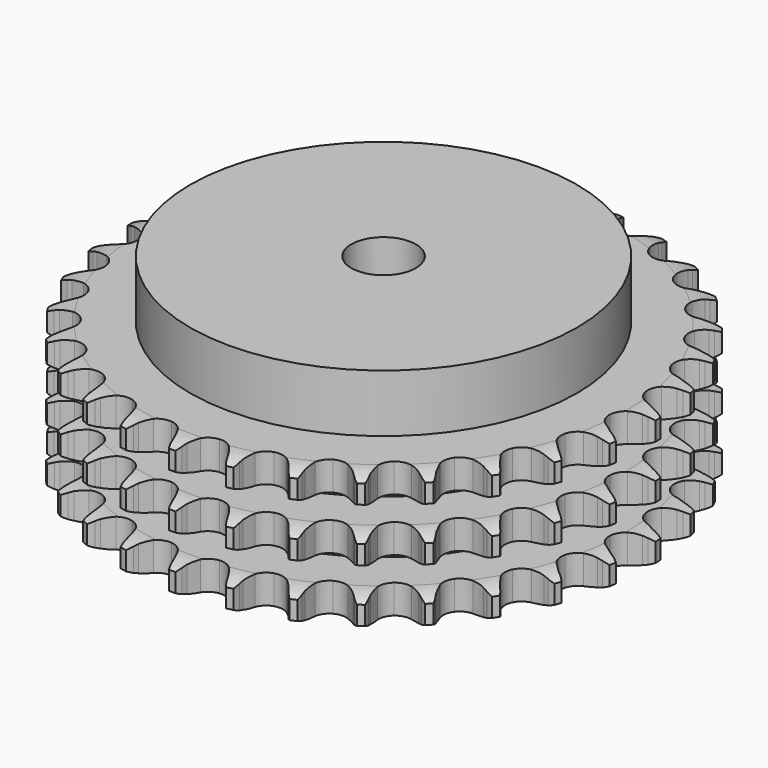
from build123d import *

# Parameters (mm, degrees)
PAD_DEPTH         = 42.1
SKETCH001_R       = 60
PAD001_DEPTH      = 60
SKETCH002_R       = 10
POCKET_DEPTH      = 0.001
POCKET_DEPTH_BACK = 60.001


with BuildPart() as part:
    # Sprocket → Pad (new body)
    with BuildSketch(Plane.XY):
        with BuildLine():
            ThreePointArc((-8.441553, 83.012563), (-7.253766, 81.595871), (-6.410038, 79.950886))
            Line((-6.410038, 79.950886), (-5.914495, 78.642367))
            ThreePointArc((-5.914495, 78.642367), (-5.128769, 76.941144), (-4.111265, 75.367546))
            ThreePointArc((-4.111265, 75.367546), (-2.29761, 73.856552), (0, 73.314854))
            ThreePointArc((0, 73.314854), (2.29761, 73.856552), (4.111265, 75.367546))
            ThreePointArc((4.111265, 75.367546), (5.128769, 76.941144), (5.914495, 78.642367))
            Line((5.914495, 78.642367), (6.410038, 79.950886))
            ThreePointArc((6.410038, 79.950886), (7.253766, 81.595871), (8.441553, 83.012563))
            ThreePointArc((8.441553, 83.012563), (9.319847, 81.385771), (9.815171, 79.604618))
            Line((9.815171, 79.604618), (10.037167, 78.223133))
            ThreePointArc((10.037167, 78.223133), (10.464356, 76.398568), (11.144269, 74.652359))
            ThreePointArc((11.144269, 74.652359), (12.616637, 72.807209), (14.758172, 71.814094))
            ThreePointArc((14.758172, 71.814094), (17.117792, 71.882198), (19.198482, 72.997176))
            Line((19.198482, 72.997176), (21.624017, 75.841974))
            ThreePointArc((21.624017, 75.841974), (21.982831, 76.44284), (22.372819, 77.023955))
            ThreePointArc((22.372819, 77.023955), (23.530409, 78.465426), (24.97906, 79.614019))
            ThreePointArc((24.97906, 79.614019), (25.511905, 77.843728), (25.638545, 75.999327))
            Line((25.638545, 75.999327), (25.577906, 74.601434))
            ThreePointArc((25.577906, 74.601434), (25.629069, 72.728225), (25.943554, 70.880896))
            ThreePointArc((25.943554, 70.880896), (27.014357, 68.777131), (28.912142, 67.373258))
            ThreePointArc((28.912142, 67.373258), (31.23717, 66.964979), (33.499712, 67.638294))
            Line((33.499712, 67.638294), (36.44825, 69.936602))
            ThreePointArc((36.44825, 69.936602), (36.920671, 70.452939), (37.419655, 70.943655))
            ThreePointArc((37.419655, 70.943655), (38.843714, 72.122598), (40.493921, 72.956068))
            ThreePointArc((40.493921, 72.956068), (40.659502, 71.114754), (40.412275, 69.282615))
            Line((40.412275, 69.282615), (40.071483, 67.925543))
            ThreePointArc((40.071483, 67.925543), (39.744524, 66.080381), (39.680708, 64.207561))
            ThreePointArc((39.680708, 64.207561), (40.306106, 61.931309), (41.882446, 60.174152))
            ThreePointArc((41.882446, 60.174152), (44.077695, 59.306206), (46.429459, 59.510291))
            Line((46.429459, 59.510291), (49.780286, 61.168017))
            ThreePointArc((49.780286, 61.168017), (50.346975, 61.578687), (50.934525, 61.958913))
            ThreePointArc((50.934525, 61.958913), (52.566754, 62.827062), (54.350956, 63.311286))
            ThreePointArc((54.350956, 63.311286), (54.142494, 61.474333), (53.531521, 59.729465))
            Line((53.531521, 59.729465), (52.924529, 58.468773))
            ThreePointArc((52.924529, 58.468773), (52.232834, 56.727198), (51.793328, 54.905561))
            ThreePointArc((51.793328, 54.905561), (51.947719, 52.550012), (53.138077, 50.511509))
            ThreePointArc((53.138077, 50.511509), (55.113673, 49.21943), (57.458379, 48.945931))
            Line((57.458379, 48.945931), (61.074312, 49.895206))
            ThreePointArc((61.074312, 49.895206), (61.712068, 50.183396), (62.36413, 50.437566))
            ThreePointArc((62.36413, 50.437566), (64.137704, 50.959379), (65.982857, 51.074533))
            ThreePointArc((65.982857, 51.074533), (65.408886, 49.317146), (64.459181, 47.730983))
            Line((64.459181, 47.730983), (63.610838, 46.618284))
            ThreePointArc((63.610838, 46.618284), (62.582726, 45.051596), (61.785524, 43.35572))
            ThreePointArc((61.785524, 43.35572), (61.462586, 41.017311), (62.21823, 38.780919))
            ThreePointArc((62.21823, 38.780919), (63.893291, 37.117605), (66.134946, 36.377718))
            Line((66.134946, 36.377718), (69.867949, 36.579679))
            ThreePointArc((69.867949, 36.579679), (70.550662, 36.733591), (71.24054, 36.851299))
            ThreePointArc((71.24054, 36.851299), (73.082849, 37.005412), (74.913412, 36.746783))
            ThreePointArc((74.913412, 36.746783), (73.997431, 35.140909), (72.747874, 33.77839))
            Line((72.747874, 33.77839), (71.692912, 32.859238))
            ThreePointArc((71.692912, 32.859238), (70.370474, 31.531577), (69.248213, 30.030892))
            ThreePointArc((69.248213, 30.030892), (68.461167, 27.805357), (68.75116, 25.462634))
            ThreePointArc((68.75116, 25.462634), (70.057111, 23.49618), (72.10394, 22.320197))
            Line((72.10394, 22.320197), (75.801183, 21.766577))
            ThreePointArc((75.801183, 21.766577), (76.500903, 21.779908), (77.200354, 21.756336))
            ThreePointArc((77.200354, 21.756336), (79.035973, 21.53644), (80.777003, 20.914615))
            ThreePointArc((80.777003, 20.914615), (79.556512, 19.525999), (78.05826, 18.442905))
            Line((78.05826, 18.442905), (76.83987, 17.75493))
            ThreePointArc((76.83987, 17.75493), (75.277246, 16.720652), (73.875872, 15.476595))
            ThreePointArc((73.875872, 15.476595), (72.65694, 13.455048), (72.469411, 11.101905))
            ThreePointArc((72.469411, 11.101905), (73.352784, 8.912819), (75.120991, 7.348885))
            Line((75.120991, 7.348885), (78.631108, 6.062348))
            ThreePointArc((78.631108, 6.062348), (79.319189, 5.934554), (79.999576, 5.770665))
            ThreePointArc((79.999576, 5.770665), (81.753356, 5.185764), (83.333575, 4.226201))
            ThreePointArc((83.333575, 4.226201), (81.858541, 3.111693), (80.172933, 2.352365))
            Line((80.172933, 2.352365), (78.840995, 1.923734))
            ThreePointArc((78.840995, 1.923734), (77.102159, 1.225181), (75.479044, 0.288684))
            ThreePointArc((75.479044, 0.288684), (73.878129, -1.446112), (73.220755, -3.713336))
            ThreePointArc((73.220755, -3.713336), (73.645385, -6.035434), (75.06258, -7.923291))
            Line((75.06258, -7.923291), (78.241866, -9.890075))
            ThreePointArc((78.241866, -9.890075), (78.890137, -10.153762), (79.523606, -10.451257))
            ThreePointArc((79.523606, -10.451257), (81.123746, -11.377219), (82.478459, -12.635235))
            ThreePointArc((82.478459, -12.635235), (80.809271, -13.430007), (79.005316, -13.834481))
            Line((79.005316, -13.834481), (77.61436, -13.986221))
            ThreePointArc((77.61436, -13.986221), (75.7705, -14.320449), (73.992095, -14.911045))
            ThreePointArc((73.992095, -14.911045), (72.07474, -16.288068), (70.974432, -18.376554))
            ThreePointArc((70.974432, -18.376554), (70.922936, -20.736595), (71.931098, -22.871087))
            Line((71.931098, -22.871087), (74.649393, -25.437596))
            ThreePointArc((74.649393, -25.437596), (75.231314, -25.826382), (75.791931, -26.245303))
            ThreePointArc((75.791931, -26.245303), (77.172921, -27.474417), (78.246666, -28.979383))
            ThreePointArc((78.246666, -28.979383), (76.45166, -29.42188), (74.603212, -29.454941))
            Line((74.603212, -29.454941), (73.210183, -29.323578))
            ThreePointArc((73.210183, -29.323578), (71.336788, -29.279798), (69.475902, -29.500314))
            ThreePointArc((69.475902, -29.500314), (67.320601, -30.463189), (65.822409, -32.287433))
            ThreePointArc((65.822409, -32.287433), (65.296894, -34.588798), (65.854748, -36.882538))
            Line((65.854748, -36.882538), (68.000765, -39.943699))
            ThreePointArc((68.000765, -39.943699), (68.492512, -40.441667), (68.957325, -40.964864))
            ThreePointArc((68.957325, -40.964864), (70.062627, -42.446808), (70.811446, -44.137111))
            ThreePointArc((70.811446, -44.137111), (68.964109, -44.209219), (67.146843, -43.869513))
            Line((67.146843, -43.869513), (65.808774, -43.460424))
            ThreePointArc((65.808774, -43.460424), (63.98254, -43.040429), (62.115356, -42.881837))
            ThreePointArc((62.115356, -42.881837), (59.81035, -43.391143), (57.975608, -44.876461))
            ThreePointArc((57.975608, -44.876461), (56.997589, -47.024931), (57.082297, -49.384014))
            Line((57.082297, -49.384014), (58.568178, -52.814503))
            ThreePointArc((58.568178, -52.814503), (58.949619, -53.401265), (59.299598, -54.007318))
            ThreePointArc((59.299598, -54.007318), (60.083962, -55.681423), (60.477196, -57.487861))
            ThreePointArc((60.477196, -57.487861), (58.653159, -57.186626), (56.941475, -56.488062))
            Line((56.941475, -56.488062), (55.713145, -55.817995))
            ThreePointArc((55.713145, -55.817995), (54.008839, -55.038979), (52.211801, -54.507773))
            ThreePointArc((52.211801, -54.507773), (49.851455, -54.542659), (47.755278, -55.628241))
            ThreePointArc((47.755278, -55.628241), (46.364795, -57.535858), (45.97289, -59.863702))
            Line((45.97289, -59.863702), (46.737803, -63.523074))
            ThreePointArc((46.737803, -63.523074), (46.993321, -64.174609), (47.214139, -64.838706))
            ThreePointArc((47.214139, -64.838706), (47.645451, -66.636434), (47.667003, -68.485052))
            ThreePointArc((47.667003, -68.485052), (45.940942, -67.822807), (44.404917, -66.793982))
            Line((44.404917, -66.793982), (43.336614, -65.890371))
            ThreePointArc((43.336614, -65.890371), (41.82401, -64.784228), (40.170688, -63.902154))
            ThreePointArc((40.170688, -63.902154), (37.851637, -63.461192), (35.579842, -64.102594))
            ThreePointArc((35.579842, -64.102594), (33.833822, -65.691261), (32.981347, -67.892563))
            Line((32.981347, -67.892563), (32.993976, -71.631004))
            ThreePointArc((32.993976, -71.631004), (33.113111, -72.320637), (33.195727, -73.015591))
            ThreePointArc((33.195727, -73.015591), (33.256331, -74.863341), (32.905317, -76.678456))
            ThreePointArc((32.905317, -76.678456), (31.347898, -75.682314), (30.050416, -74.36535))
            Line((30.050416, -74.36535), (29.185877, -73.265188))
            ThreePointArc((29.185877, -73.265188), (27.926901, -71.877202), (26.484983, -70.680373))
            ThreePointArc((26.484983, -70.680373), (24.302168, -69.781616), (21.947764, -69.95258))
            ThreePointArc((21.947764, -69.95258), (19.917688, -71.157255), (18.639545, -73.141895))
            Line((18.639545, -73.141895), (17.899372, -76.806352))
            ThreePointArc((17.899372, -76.806352), (17.877247, -77.505849), (17.818278, -78.203208))
            ThreePointArc((17.818278, -78.203208), (17.505692, -80.025334), (16.796483, -81.732635))
            ThreePointArc((16.796483, -81.732635), (15.471467, -80.443378), (14.465647, -78.892191))
            Line((14.465647, -78.892191), (13.840266, -77.640519))
            ThreePointArc((13.840266, -77.640519), (12.886461, -76.027515), (11.714979, -74.564929))
            ThreePointArc((11.714979, -74.564929), (9.757765, -73.245172), (7.417141, -72.938699))
            ThreePointArc((7.417141, -72.938699), (5.186122, -73.710063), (3.534637, -75.396789))
            Line((3.534637, -75.396789), (2.071966, -78.837238))
            ThreePointArc((2.071966, -78.837238), (1.909486, -79.517963), (1.711347, -80.189177))
            ThreePointArc((1.711347, -80.189177), (1.038368, -81.91108), (0, -83.44067))
            ThreePointArc((0, -83.44067), (-1.038368, -81.91108), (-1.711347, -80.189177))
            Line((-1.711347, -80.189177), (-2.071966, -78.837238))
            ThreePointArc((-2.071966, -78.837238), (-2.681552, -77.065253), (-3.534637, -75.396789))
            ThreePointArc((-3.534637, -75.396789), (-5.186122, -73.710063), (-7.417141, -72.938699))
            ThreePointArc((-7.417141, -72.938699), (-9.757765, -73.245172), (-11.714979, -74.564929))
            Line((-11.714979, -74.564929), (-13.840266, -77.640519))
            ThreePointArc((-13.840266, -77.640519), (-14.13645, -78.274602), (-14.465647, -78.892191))
            ThreePointArc((-14.465647, -78.892191), (-15.471467, -80.443378), (-16.796483, -81.732635))
            ThreePointArc((-16.796483, -81.732635), (-17.505692, -80.025334), (-17.818278, -78.203208))
            Line((-17.818278, -78.203208), (-17.899372, -76.806352))
            ThreePointArc((-17.899372, -76.806352), (-18.139782, -74.94793), (-18.639545, -73.141895))
            ThreePointArc((-18.639545, -73.141895), (-19.917688, -71.157255), (-21.947764, -69.95258))
            ThreePointArc((-21.947764, -69.95258), (-24.302168, -69.781616), (-26.484983, -70.680373))
            Line((-26.484983, -70.680373), (-29.185877, -73.265188))
            ThreePointArc((-29.185877, -73.265188), (-29.603638, -73.82667), (-30.050416, -74.36535))
            ThreePointArc((-30.050416, -74.36535), (-31.347898, -75.682314), (-32.905317, -76.678456))
            ThreePointArc((-32.905317, -76.678456), (-33.256331, -74.863341), (-33.195727, -73.015591))
            Line((-33.195727, -73.015591), (-32.993976, -71.631004))
            ThreePointArc((-32.993976, -71.631004), (-32.855367, -69.76223), (-32.981347, -67.892563))
            ThreePointArc((-32.981347, -67.892563), (-33.833822, -65.691261), (-35.579842, -64.102594))
            ThreePointArc((-35.579842, -64.102594), (-37.851637, -63.461192), (-40.170688, -63.902154))
            Line((-40.170688, -63.902154), (-43.336614, -65.890371))
            ThreePointArc((-43.336614, -65.890371), (-43.858849, -66.356266), (-44.404917, -66.793982))
            ThreePointArc((-44.404917, -66.793982), (-45.940942, -67.822807), (-47.667003, -68.485052))
            ThreePointArc((-47.667003, -68.485052), (-47.645451, -66.636434), (-47.214139, -64.838706))
            Line((-47.214139, -64.838706), (-46.737803, -63.523074))
            ThreePointArc((-46.737803, -63.523074), (-46.225849, -61.720457), (-45.97289, -59.863702))
            ThreePointArc((-45.97289, -59.863702), (-46.364795, -57.535858), (-47.755278, -55.628241))
            ThreePointArc((-47.755278, -55.628241), (-49.851455, -54.542659), (-52.211801, -54.507773))
            Line((-52.211801, -54.507773), (-55.713145, -55.817995))
            ThreePointArc((-55.713145, -55.817995), (-56.318474, -56.169228), (-56.941475, -56.488062))
            ThreePointArc((-56.941475, -56.488062), (-58.653159, -57.186626), (-60.477196, -57.487861))
            ThreePointArc((-60.477196, -57.487861), (-60.083962, -55.681423), (-59.299598, -54.007318))
            Line((-59.299598, -54.007318), (-58.568178, -52.814503))
            ThreePointArc((-58.568178, -52.814503), (-57.70384, -51.15184), (-57.082297, -49.384014))
            ThreePointArc((-57.082297, -49.384014), (-56.997589, -47.024931), (-57.975608, -44.876461))
            ThreePointArc((-57.975608, -44.876461), (-59.81035, -43.391143), (-62.115356, -42.881837))
            Line((-62.115356, -42.881837), (-65.808774, -43.460424))
            ThreePointArc((-65.808774, -43.460424), (-66.472414, -43.682615), (-67.146843, -43.869513))
            ThreePointArc((-67.146843, -43.869513), (-68.964109, -44.209219), (-70.811446, -44.137111))
            ThreePointArc((-70.811446, -44.137111), (-70.062627, -42.446808), (-68.957325, -40.964864))
            Line((-68.957325, -40.964864), (-68.000765, -39.943699))
            ThreePointArc((-68.000765, -39.943699), (-66.819429, -38.489062), (-65.854748, -36.882538))
            ThreePointArc((-65.854748, -36.882538), (-65.296894, -34.588798), (-65.822409, -32.287433))
            ThreePointArc((-65.822409, -32.287433), (-67.320601, -30.463189), (-69.475902, -29.500314))
            Line((-69.475902, -29.500314), (-73.210183, -29.323578))
            ThreePointArc((-73.210183, -29.323578), (-73.904965, -29.407631), (-74.603212, -29.454941))
            ThreePointArc((-74.603212, -29.454941), (-76.45166, -29.42188), (-78.246666, -28.979383))
            ThreePointArc((-78.246666, -28.979383), (-77.172921, -27.474417), (-75.791931, -26.245303))
            Line((-75.791931, -26.245303), (-74.649393, -25.437596))
            ThreePointArc((-74.649393, -25.437596), (-73.199422, -24.250536), (-71.931098, -22.871087))
            ThreePointArc((-71.931098, -22.871087), (-70.922936, -20.736595), (-70.974432, -18.376554))
            ThreePointArc((-70.974432, -18.376554), (-72.07474, -16.288068), (-73.992095, -14.911045))
            Line((-73.992095, -14.911045), (-77.61436, -13.986221))
            ThreePointArc((-77.61436, -13.986221), (-78.311839, -13.928695), (-79.005316, -13.834481))
            ThreePointArc((-79.005316, -13.834481), (-80.809271, -13.430007), (-82.478459, -12.635235))
            ThreePointArc((-82.478459, -12.635235), (-81.123746, -11.377219), (-79.523606, -10.451257))
            Line((-79.523606, -10.451257), (-78.241866, -9.890075))
            ThreePointArc((-78.241866, -9.890075), (-76.582623, -9.019191), (-75.06258, -7.923291))
            ThreePointArc((-75.06258, -7.923291), (-73.645385, -6.035434), (-73.220755, -3.713336))
            ThreePointArc((-73.220755, -3.713336), (-73.878129, -1.446112), (-75.479044, 0.288684))
            Line((-75.479044, 0.288684), (-78.840995, 1.923734))
            ThreePointArc((-78.840995, 1.923734), (-79.512616, 2.120484), (-80.172933, 2.352365))
            ThreePointArc((-80.172933, 2.352365), (-81.858541, 3.111693), (-83.333575, 4.226201))
            ThreePointArc((-83.333575, 4.226201), (-81.753356, 5.185764), (-79.999576, 5.770665))
            Line((-79.999576, 5.770665), (-78.631108, 6.062348))
            ThreePointArc((-78.631108, 6.062348), (-76.830522, 6.581401), (-75.120991, 7.348885))
            ThreePointArc((-75.120991, 7.348885), (-73.352784, 8.912819), (-72.469411, 11.101905))
            ThreePointArc((-72.469411, 11.101905), (-72.65694, 13.455048), (-73.875872, 15.476595))
            Line((-73.875872, 15.476595), (-76.83987, 17.75493))
            ThreePointArc((-76.83987, 17.75493), (-77.458138, 18.082849), (-78.05826, 18.442905))
            ThreePointArc((-78.05826, 18.442905), (-79.556512, 19.525999), (-80.777003, 20.914615))
            ThreePointArc((-80.777003, 20.914615), (-79.035973, 21.53644), (-77.200354, 21.756336))
            Line((-77.200354, 21.756336), (-75.801183, 21.766577))
            ThreePointArc((-75.801183, 21.766577), (-73.93297, 21.91255), (-72.10394, 22.320197))
            ThreePointArc((-72.10394, 22.320197), (-70.057111, 23.49618), (-68.75116, 25.462634))
            ThreePointArc((-68.75116, 25.462634), (-68.461167, 27.805357), (-69.248213, 30.030892))
            Line((-69.248213, 30.030892), (-71.692912, 32.859238))
            ThreePointArc((-71.692912, 32.859238), (-72.232515, 33.304901), (-72.747874, 33.77839))
            ThreePointArc((-72.747874, 33.77839), (-73.997431, 35.140909), (-74.913412, 36.746783))
            ThreePointArc((-74.913412, 36.746783), (-73.082849, 37.005412), (-71.24054, 36.851299))
            Line((-71.24054, 36.851299), (-69.867949, 36.579679))
            ThreePointArc((-69.867949, 36.579679), (-68.008594, 36.346596), (-66.134946, 36.377718))
            ThreePointArc((-66.134946, 36.377718), (-63.893291, 37.117605), (-62.21823, 38.780919))
            ThreePointArc((-62.21823, 38.780919), (-61.462586, 41.017311), (-61.785524, 43.35572))
            Line((-61.785524, 43.35572), (-63.610838, 46.618284))
            ThreePointArc((-63.610838, 46.618284), (-64.049684, 47.163446), (-64.459181, 47.730983))
            ThreePointArc((-64.459181, 47.730983), (-65.408886, 49.317146), (-65.982857, 51.074533))
            ThreePointArc((-65.982857, 51.074533), (-64.137704, 50.959379), (-62.36413, 50.437566))
            Line((-62.36413, 50.437566), (-61.074312, 49.895206))
            ThreePointArc((-61.074312, 49.895206), (-59.299938, 49.292609), (-57.458379, 48.945931))
            ThreePointArc((-57.458379, 48.945931), (-55.113673, 49.21943), (-53.138077, 50.511509))
            ThreePointArc((-53.138077, 50.511509), (-51.947719, 52.550012), (-51.793328, 54.905561))
            Line((-51.793328, 54.905561), (-52.924529, 58.468773))
            ThreePointArc((-52.924529, 58.468773), (-53.244651, 59.091114), (-53.531521, 59.729465))
            ThreePointArc((-53.531521, 59.729465), (-54.142494, 61.474333), (-54.350956, 63.311286))
            ThreePointArc((-54.350956, 63.311286), (-52.566754, 62.827062), (-50.934525, 61.958913))
            Line((-50.934525, 61.958913), (-49.780286, 61.168017))
            ThreePointArc((-49.780286, 61.168017), (-48.163536, 60.220576), (-46.429459, 59.510291))
            ThreePointArc((-46.429459, 59.510291), (-44.077695, 59.306206), (-41.882446, 60.174152))
            ThreePointArc((-41.882446, 60.174152), (-40.306106, 61.931309), (-39.680708, 64.207561))
            Line((-39.680708, 64.207561), (-40.071483, 67.925543))
            ThreePointArc((-40.071483, 67.925543), (-40.259776, 68.599585), (-40.412275, 69.282615))
            ThreePointArc((-40.412275, 69.282615), (-40.659502, 71.114754), (-40.493921, 72.956068))
            ThreePointArc((-40.493921, 72.956068), (-38.843714, 72.122598), (-37.419655, 70.943655))
            Line((-37.419655, 70.943655), (-36.44825, 69.936602))
            ThreePointArc((-36.44825, 69.936602), (-35.055313, 68.683106), (-33.499712, 67.638294))
            ThreePointArc((-33.499712, 67.638294), (-31.23717, 66.964979), (-28.912142, 67.373258))
            ThreePointArc((-28.912142, 67.373258), (-27.014357, 68.777131), (-25.943554, 70.880896))
            Line((-25.943554, 70.880896), (-25.577906, 74.601434))
            ThreePointArc((-25.577906, 74.601434), (-25.626661, 75.299581), (-25.638545, 75.999327))
            ThreePointArc((-25.638545, 75.999327), (-25.511905, 77.843728), (-24.97906, 79.614019))
            ThreePointArc((-24.97906, 79.614019), (-23.530409, 78.465426), (-22.372819, 77.023955))
            Line((-22.372819, 77.023955), (-21.624017, 75.841974))
            ThreePointArc((-21.624017, 75.841974), (-20.511921, 74.333741), (-19.198482, 72.997176))
            ThreePointArc((-19.198482, 72.997176), (-17.117792, 71.882198), (-14.758172, 71.814094))
            ThreePointArc((-14.758172, 71.814094), (-12.616637, 72.807209), (-11.144269, 74.652359))
            Line((-11.144269, 74.652359), (-10.037167, 78.223133))
            ThreePointArc((-10.037167, 78.223133), (-9.944388, 78.916803), (-9.815171, 79.604618))
            ThreePointArc((-9.815171, 79.604618), (-9.319847, 81.385771), (-8.441553, 83.012563))
        make_face()
    extrude(amount=PAD_DEPTH)

    # Sketch → Groove (revolve, cut)
    with BuildSketch(Plane.XZ):
        with BuildLine():
            ThreePointArc((74.975762, 0), (78.55347, 0.405129), (81.95, 1.6))
            Line((81.95, 1.6), (81.95, 7.4))
            ThreePointArc((81.95, 7.4), (78.55347, 8.594871), (74.975762, 9))
            Line((60, 9), (74.975762, 9))
            Line((60, 9), (60, 16.55))
            Line((60, 16.55), (74.975762, 16.55))
            ThreePointArc((74.975762, 16.55), (78.55347, 16.955129), (81.95, 18.15))
            Line((81.95, 23.95), (81.95, 18.15))
            ThreePointArc((81.95, 23.95), (78.55347, 25.144871), (74.975762, 25.55))
            Line((60, 25.55), (74.975762, 25.55))
            Line((60, 33.1), (60, 25.55))
            Line((74.975762, 33.1), (60, 33.1))
            ThreePointArc((74.975762, 33.1), (78.55347, 33.505129), (81.95, 34.7))
            Line((81.95, 34.7), (81.95, 40.5))
            ThreePointArc((81.95, 40.5), (78.55347, 41.694871), (74.975762, 42.1))
            Line((74.975762, 42.1), (91.95, 42.1))
            Line((91.95, 42.1), (91.95, 0))
            Line((74.975762, 0), (91.95, 0))
        make_face()
    revolve(axis=Axis((0, 0, 0), (0, 0, 1)), mode=Mode.SUBTRACT)

    # Sketch001 → Pad001 (join)
    with BuildSketch(Plane.XY):
        Circle(SKETCH001_R)
    extrude(amount=PAD001_DEPTH)

    # Sketch002 → Pocket (cut, two sides)
    with BuildSketch(Plane.XY) as pocket_sk:
        Circle(SKETCH002_R)
    extrude(amount=-POCKET_DEPTH, mode=Mode.SUBTRACT)
    extrude(pocket_sk.sketch, amount=POCKET_DEPTH_BACK, mode=Mode.SUBTRACT)


solid = part.part
